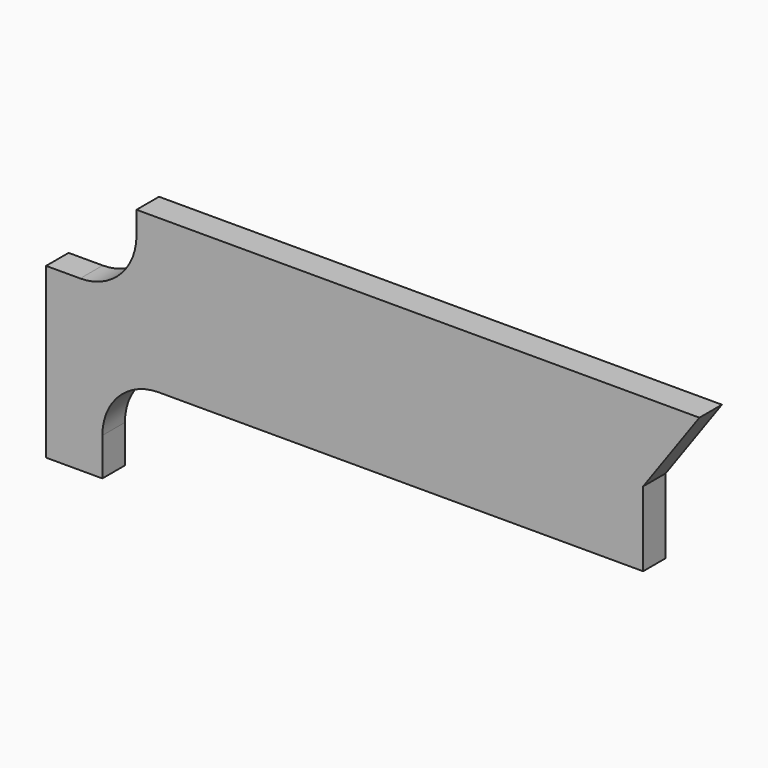
from build123d import *

# Parameters (mm, degrees)
F1_DEPTH = 6.35


with BuildPart() as f1:
    # F0 (on Front) → F1 (new body)
    with BuildSketch(Plane.XZ):
        with BuildLine():
            Line((0, 38.1), (0, 0))
            Line((0, 0), (12.7, 0))
            Line((12.7, 0), (12.7, 8.540787))
            ThreePointArc((12.7, 8.540787), (16.419744, 17.521043), (25.4, 21.240787))
            Line((25.4, 21.240787), (134.698987, 21.240787))
            Line((134.698987, 21.240787), (134.698987, 38.1))
            Line((134.698987, 38.1), (147.398987, 55.88))
            Line((147.398987, 55.88), (20.398987, 55.88))
            Line((20.398987, 55.88), (20.398987, 50.8))
            ThreePointArc((20.398987, 50.8), (16.679244, 41.819744), (7.698987, 38.1))
            Line((7.698987, 38.1), (0, 38.1))
        make_face()
    extrude(amount=F1_DEPTH)


solid = f1.part
